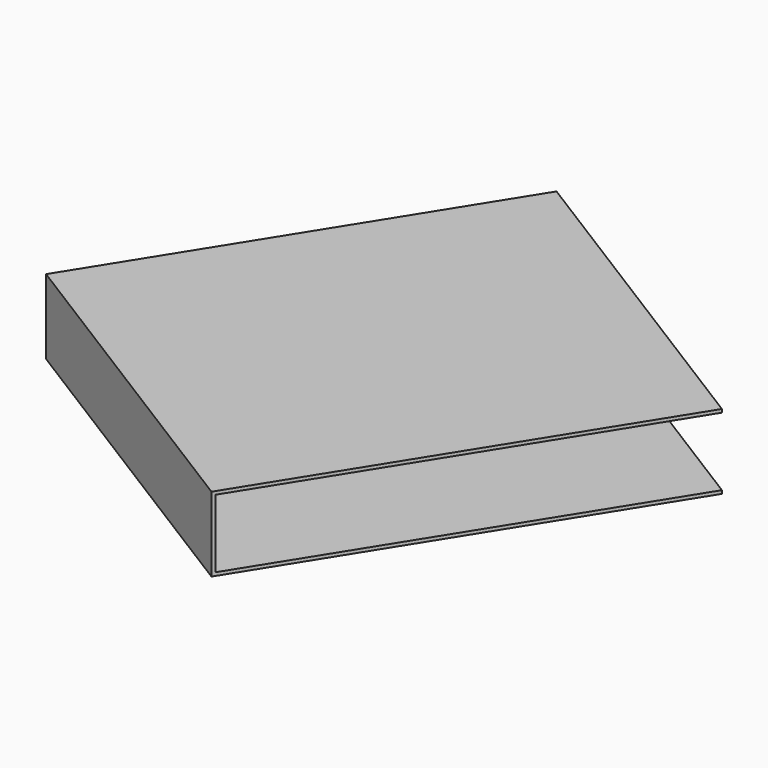
from build123d import *

# Parameters (mm, degrees)
BOX173_W               = 6
BOX173_H               = 6.45
BOX173_DEPTH           = 1.05
BOX172_W               = 6
BOX172_H               = 6.5
BOX172_DEPTH           = 1.15
CUT084_PLACEMENT_ANGLE = 148


with BuildPart() as small_cu_gnd_electrode070:
    # Box173 → Box173 (new body)
    with BuildSketch(Plane.XY.offset(0.05)):
        with Locations((3, 3.225)):
            Rectangle(BOX173_W, BOX173_H)
    extrude(amount=BOX173_DEPTH)


with BuildPart() as small_cu_electrode_short_axis_gnd008:
    # Box172 → Box172 (new body)
    with BuildSketch(Plane.XY):
        with Locations((3, 3.25)):
            Rectangle(BOX172_W, BOX172_H)
    extrude(amount=BOX172_DEPTH)

    # Cut084: cut Small Cu GND Electrode070
    add(small_cu_gnd_electrode070.part, mode=Mode.SUBTRACT)


with BuildPart() as small_cu_electrode_short_axis_gnd008_1:
    # Cut084 placement: moved
    add(small_cu_electrode_short_axis_gnd008.part.moved(Location((-4.588858, 19.640047, 1.59))).rotate(Axis((-4.588858, 19.640047, 1.59), (0, 0, 1)), CUT084_PLACEMENT_ANGLE))


solid = small_cu_electrode_short_axis_gnd008_1.part
